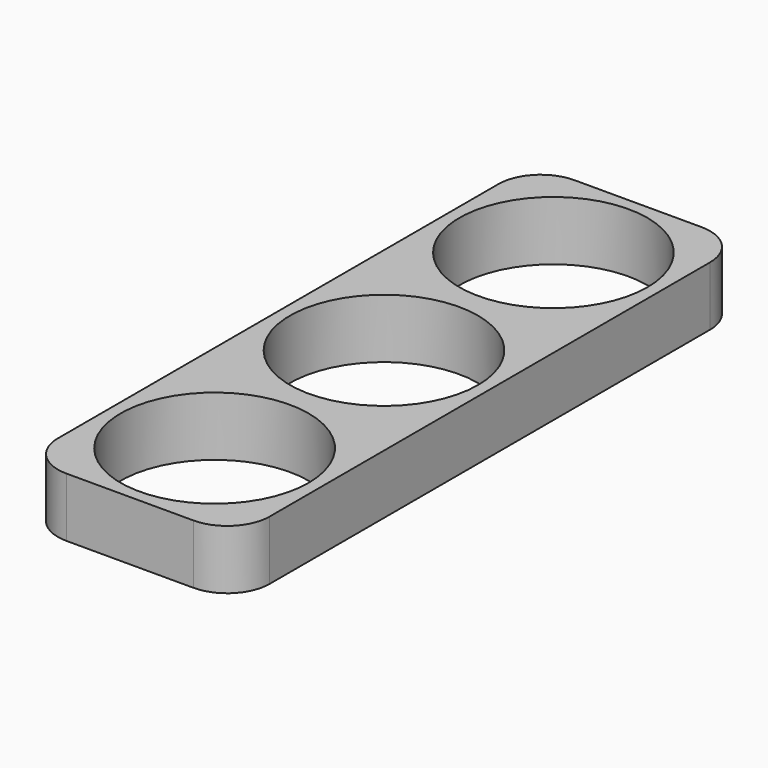
from build123d import *

# Parameters (mm, degrees)
F0_R     = 11.1
F1_DEPTH = 7
F2_R     = 5


with BuildPart() as f1:
    # F0 (on Top) → F1 (new body)
    with BuildSketch(Plane.XY):
        Polygon((12.5, 25), (12.5, 37.5), (-12.5, 37.5), (-12.5, 25), (-12.5, 12.5), (-12.5, -12.5), (-12.5, -25), (-12.5, -37.5), (12.5, -37.5), (12.5, -25), (12.5, -12.5), (12.5, 12.5), align=None)
        with Locations((0, -25)):
            Circle(F0_R, mode=Mode.SUBTRACT)
        Circle(F0_R, mode=Mode.SUBTRACT)
        with Locations((0, 25)):
            Circle(F0_R, mode=Mode.SUBTRACT)
    extrude(amount=F1_DEPTH)

    # F2
    f2_edges = [f1.edges().sort_by_distance(p)[0] for p in [
        (12.5, -37.5, 3.5),
        (-12.5, -37.5, 3.5),
        (-12.5, 37.5, 3.5),
        (12.5, 37.5, 3.5),
    ]]
    fillet(f2_edges, radius=F2_R)


solid = f1.part
